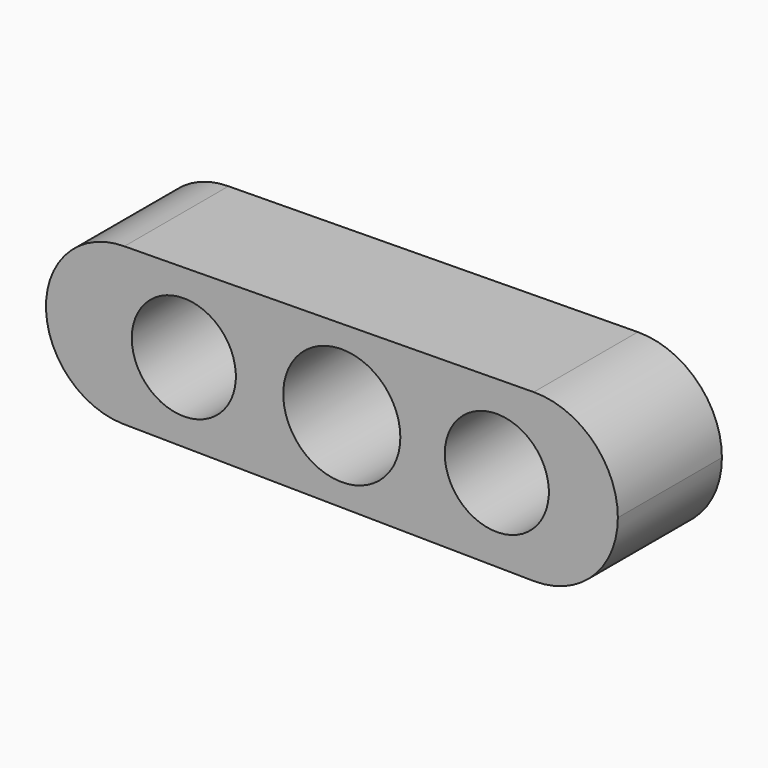
from build123d import *

# Parameters (mm, degrees)
F1_DEPTH = 25.4
F3_D     = 20.32
F5_D     = 22.86


with BuildPart() as f1:
    # F0 (on Front) → F1 (new body)
    with BuildSketch(Plane.XZ):
        with BuildLine():
            Line((37.473018, -16.239311), (37.473018, 16.239311))
            ThreePointArc((37.473018, 16.239311), (21.421916, 0), (37.473018, -16.239311))
        make_face()
        with BuildLine():
            ThreePointArc((53.902746, 0), (49.07891, 11.550446), (37.473018, 16.239311))
            Line((37.473018, 16.239311), (37.473018, -16.239311))
            ThreePointArc((37.473018, -16.239311), (49.07891, -11.550446), (53.902746, 0))
        make_face()
        with BuildLine():
            ThreePointArc((-42.453576, 15.307551), (-31.629503, 10.824073), (-27.146025, 0))
            ThreePointArc((-27.146025, 0), (-31.629503, -10.824073), (-42.453576, -15.307551))
            Line((-42.453576, -15.307551), (37.473018, -16.239311))
            ThreePointArc((37.473018, -16.239311), (21.421916, 0), (37.473018, 16.239311))
            Line((37.473018, 16.239311), (-42.453576, 15.307551))
        make_face()
        with BuildLine():
            ThreePointArc((-42.453576, -15.307551), (-31.629503, -10.824073), (-27.146025, 0))
            ThreePointArc((-27.146025, 0), (-31.629503, 10.824073), (-42.453576, 15.307551))
            Line((-42.453576, 15.307551), (-42.810429, -15.303391))
            Line((-42.810429, -15.303391), (-42.453576, -15.307551))
        make_face()
        with BuildLine():
            Line((-42.810429, -15.303391), (-42.453576, 15.307551))
            ThreePointArc((-42.453576, 15.307551), (-57.760087, 0.178439), (-42.810429, -15.303391))
        make_face()
    extrude(amount=F1_DEPTH)

    # F3 (through all)
    with Locations(Plane(origin=(0, 0, 0), x_dir=(1, 0, 0), z_dir=(0, 1, 0))):
        with Locations((-30.845791, 0), (30.270591, 0)):
            Hole(F3_D / 2)

    # F5 (through all)
    with Locations(Plane(origin=(0, 0, 0), x_dir=(-1, 0, 0), z_dir=(0, 1, 0))):
        with Locations((0, 0)):
            Hole(F5_D / 2)


solid = f1.part
